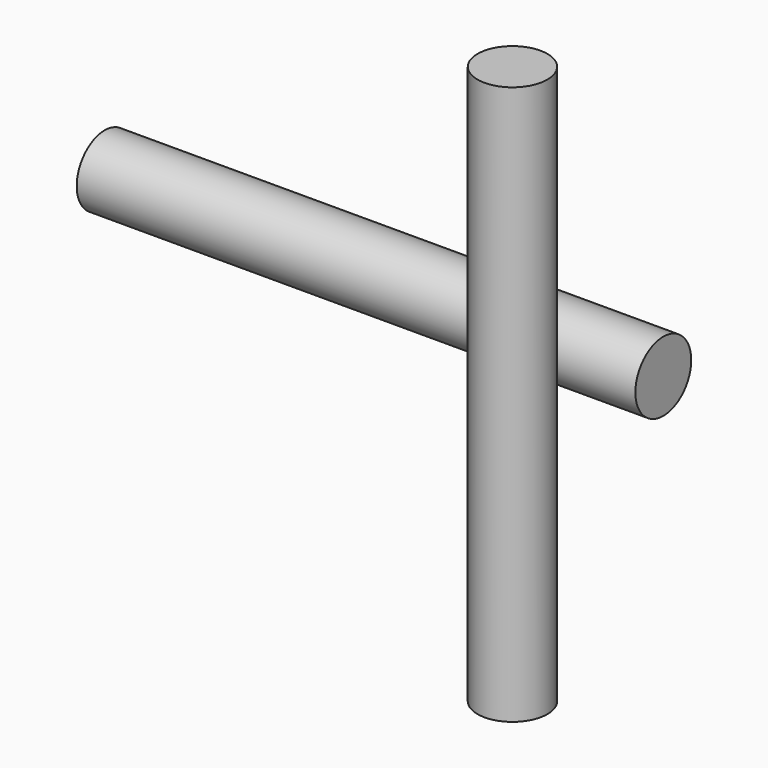
from build123d import *

# Parameters (mm, degrees)
F11_R          = 3.175
F12_DEPTH      = 50.8
F13_R          = 3.175
F14_DEPTH      = 25.4
F14_DEPTH_BACK = 25.4


with BuildPart() as f12:
    # F11 (on line) → F12 (new body)
    with BuildSketch(Plane.YZ.offset(25.4)):
        with Locations((-139.7, 0)):
            Circle(F11_R)
    extrude(amount=-F12_DEPTH)


with BuildPart() as f14:
    # F13 (on face) → F14 (new body, two sides)
    with BuildSketch(Plane.XY) as f14_sk:
        with Locations((17.78, -147.32)):
            Circle(F13_R)
    extrude(amount=F14_DEPTH)
    extrude(f14_sk.sketch, amount=-F14_DEPTH_BACK)


solid = Compound([f12.part, f14.part])
